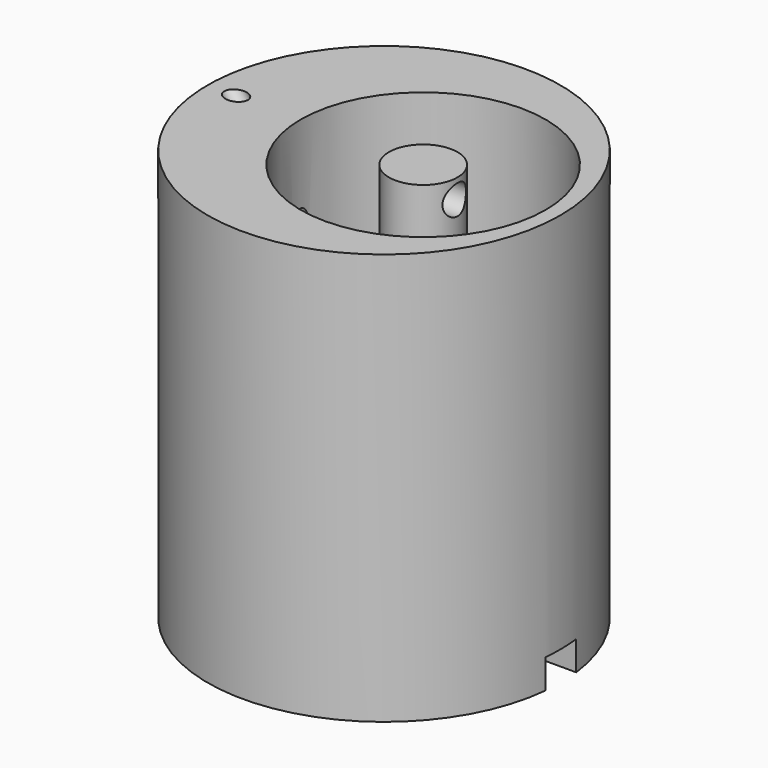
from build123d import *

# Parameters (mm, degrees)
CYLINDER_R        = 18
CYLINDER_DEPTH    = 42
SKETCH_R          = 10.2
POCKET_DEPTH      = 16
SKETCH002_R       = 12.5
SKETCH002_R_2     = 3.5
POCKET001_DEPTH   = 18
SKETCH001_R       = 4
POCKET002_DEPTH   = 4
SKETCH003_R       = 1.453406
POCKET003_DEPTH   = 5
CYLINDER001_R     = 1
CYLINDER001_DEPTH = 33
CYLINDER002_R     = 1.5
CYLINDER002_DEPTH = 10
SKETCH004_W       = 3.987101
SKETCH004_H       = 23.792822
POCKET004_DEPTH   = 3


with BuildPart() as part:
    # Cylinder → Cylinder (join)
    with BuildSketch(Plane.XY):
        Circle(CYLINDER_R)
    extrude(amount=CYLINDER_DEPTH)

    # Sketch (on Face2 of Cylinder) → Pocket (cut)
    with BuildSketch(Plane(origin=(0, 0, 0), x_dir=(1, 0, 0), z_dir=(0, 0, -1))):
        with Locations((-7, 0)):
            Circle(SKETCH_R)
    extrude(amount=-POCKET_DEPTH, mode=Mode.SUBTRACT)

    # Sketch002 (on DatumPlane) → Pocket001 (cut)
    with BuildSketch(Plane.XY.offset(42)):
        with Locations((4, 0)):
            Circle(SKETCH002_R)
        with Locations((4, 0)):
            Circle(SKETCH002_R_2, mode=Mode.SUBTRACT)
    extrude(amount=-POCKET001_DEPTH, mode=Mode.SUBTRACT)

    # Sketch001 (on DatumPlane) → Pocket002 (cut)
    with BuildSketch(Plane(origin=(0, 0, 16), x_dir=(1, 0, 0), z_dir=(0, 0, -1))):
        with Locations((-7, 0)):
            Circle(SKETCH001_R)
    extrude(amount=-POCKET002_DEPTH, mode=Mode.SUBTRACT)

    # Sketch003 (on DatumPlane) → Pocket003 (cut)
    with BuildSketch(Plane(origin=(0, 0, 20), x_dir=(1, 0, 0), z_dir=(0, 0, -1))):
        with Locations((-7, 0)):
            Circle(SKETCH003_R)
    extrude(amount=-POCKET003_DEPTH, mode=Mode.SUBTRACT)

    # Cylinder001 → Cylinder001 (cut)
    with BuildSketch(Plane(origin=(-7, 0, 30), x_dir=(0.829038, 0, 0.559193), z_dir=(-0.559193, 0, 0.829038))):
        Circle(CYLINDER001_R)
    extrude(amount=CYLINDER001_DEPTH, mode=Mode.SUBTRACT)

    # Cylinder002 → Cylinder002 (cut)
    with BuildSketch(Plane(origin=(0, 0, 40), x_dir=(0, 1, 0), z_dir=(1, 0, 0))):
        Circle(CYLINDER002_R)
    extrude(amount=CYLINDER002_DEPTH, mode=Mode.SUBTRACT)

    # Sketch004 (on Face2 of Cylinder002) → Pocket004 (cut)
    with BuildSketch(Plane.YX):
        with Locations((0.203517, 6.997041)):
            Rectangle(SKETCH004_W, SKETCH004_H)
    extrude(amount=-POCKET004_DEPTH, mode=Mode.SUBTRACT)


solid = part.part
